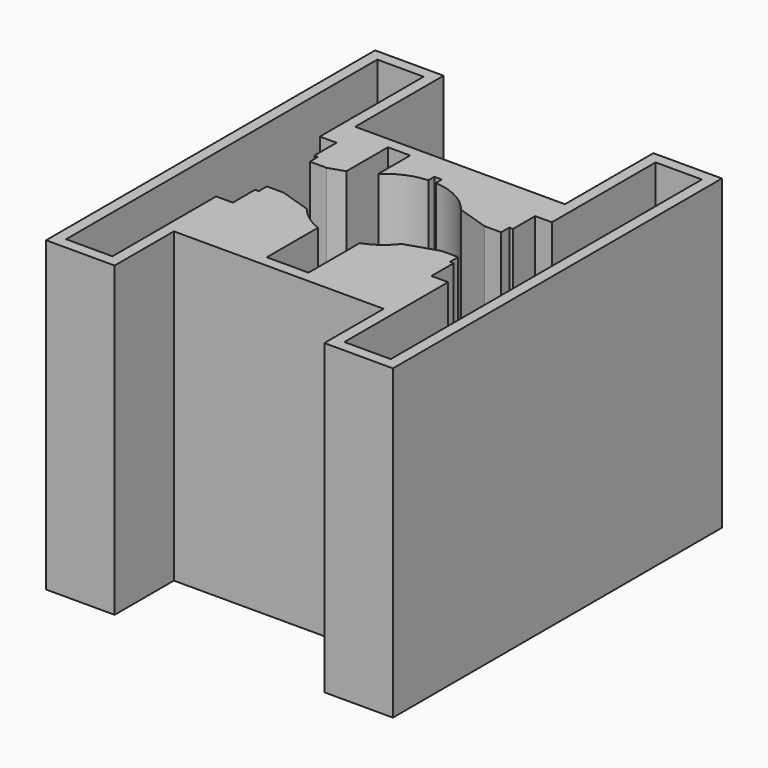
from build123d import *

# Parameters (mm, degrees)
F1_DEPTH = 32
F3_DEPTH = 1.2
F7_DEPTH = 5
F8_DEPTH = 5


with BuildPart() as f1:
    # F0 (on Top) → F1 (new body)
    with BuildSketch(Plane.XY):
        Polygon((-18.723475383, -22.2), (-11.323475383, -22.2), (-11.323475383, -14.2), (-2.25, -14.2), (2.25, -14.2), (11.323475383, -14.2), (11.323475383, -22.2), (18.723475383, -22.2), (18.723475383, 0), (18.723475383, 22.2), (11.323475383, 22.2), (11.323475383, 10.2626532034), (-4.423475383, 10.2626532034), (-6.823475383, 10.2626532034), (-11.323475383, 10.2626532034), (-11.323475383, 22.2), (-18.723475383, 22.2), (-18.723475383, 0), align=None)
        with BuildLine():
            ThreePointArc((-2.25, -6.0981554588), (-3.833092601, -5.2495143691), (-5.123475383, -4))
            Line((-5.123475383, -4), (-8.523475383, -2.9))
            Line((-8.523475383, -2.9), (-10.323475383, -2.9))
            Line((-10.323475383, -2.9), (-10.323475383, -4))
            Line((-10.323475383, -4), (-10.723475383, -4))
            Line((-10.723475383, -4), (-10.723475383, -7))
            Line((-10.723475383, -7), (-12.523475383, -7))
            Line((-12.523475383, -7), (-12.523475383, -21))
            Line((-12.523475383, -21), (-17.523475383, -21))
            Line((-17.523475383, -21), (-17.523475383, 0))
            Line((-17.523475383, 0), (-17.523475383, 21))
            Line((-17.523475383, 21), (-12.523475383, 21))
            Line((-12.523475383, 21), (-12.523475383, 7))
            Line((-12.523475383, 7), (-10.723475383, 7))
            Line((-10.723475383, 7), (-10.723475383, 4))
            Line((-10.723475383, 4), (-10.323475383, 4))
            Line((-10.323475383, 4), (-10.323475383, 2.9))
            Line((-10.323475383, 2.9), (-8.523475383, 2.9))
            Line((-8.523475383, 2.9), (-6.823475383, 3.45))
            Line((-6.823475383, 3.45), (-6.823475383, 9.0626532034))
            Line((-6.823475383, 9.0626532034), (-4.423475383, 9.0626532034))
            Line((-4.423475383, 9.0626532034), (-4.423475383, 4.7626532034))
            ThreePointArc((-4.423475383, 4.7626532034), (-2.5613294597, 5.9740766148), (-0.4, 6.4876806333))
            Line((-0.4, 6.4876806333), (-0.4, 7.3))
            Line((-0.4, 7.3), (0, 7.3))
            Line((0, 7.3), (0.4, 7.3))
            Line((0.4, 7.3), (0.4, 6.4876806333))
            ThreePointArc((0.4, 6.4876806333), (3.0289162765, 5.7511447721), (5.123475383, 4))
            Line((5.123475383, 4), (8.523475383, 2.9))
            Line((8.523475383, 2.9), (10.323475383, 2.9))
            Line((10.323475383, 2.9), (10.323475383, 4))
            Line((10.323475383, 4), (10.723475383, 4))
            Line((10.723475383, 4), (10.723475383, 7))
            Line((10.723475383, 7), (12.523475383, 7))
            Line((12.523475383, 7), (12.523475383, 21))
            Line((12.523475383, 21), (17.523475383, 21))
            Line((17.523475383, 21), (17.523475383, 0))
            Line((17.523475383, 0), (17.523475383, -21))
            Line((17.523475383, -21), (12.523475383, -21))
            Line((12.523475383, -21), (12.523475383, -7))
            Line((12.523475383, -7), (10.723475383, -7))
            Line((10.723475383, -7), (10.723475383, -4))
            Line((10.723475383, -4), (10.323475383, -4))
            Line((10.323475383, -4), (10.323475383, -2.9))
            Line((10.323475383, -2.9), (8.523475383, -2.9))
            Line((8.523475383, -2.9), (5.123475383, -4))
            ThreePointArc((5.123475383, -4), (3.833092601, -5.2495143691), (2.25, -6.0981554588))
            Line((2.25, -6.0981554588), (2.25, -13))
            Line((2.25, -13), (-2.25, -13))
            Line((-2.25, -13), (-2.25, -6.0981554588))
        make_face(mode=Mode.SUBTRACT)
    extrude(amount=F1_DEPTH)

    # F2 (on face) → F3 (join)
    with BuildSketch(Plane(origin=(0, 0, 0), x_dir=(1, 0, 0), z_dir=(0, 0, -1))):
        Polygon((11.323475383, -10.2626532034), (11.323475383, -22.2), (18.723475383, -22.2), (18.723475383, 0), (18.723475383, 22.2), (11.323475383, 22.2), (11.323475383, 14.2), (-11.323475383, 14.2), (-11.323475383, 22.2), (-18.723475383, 22.2), (-18.723475383, -22.2), (-11.323475383, -22.2), (-11.323475383, -10.2626532034), align=None)
        with BuildLine():
            Line((17.523475383, 21), (17.523475383, 0))
            Line((17.523475383, 0), (17.523475383, -21))
            Line((17.523475383, -21), (12.523475383, -21))
            Line((12.523475383, -21), (12.523475383, -7))
            Line((12.523475383, -7), (10.723475383, -7))
            Line((10.723475383, -7), (10.723475383, -4))
            Line((10.723475383, -4), (10.323475383, -4))
            Line((10.323475383, -4), (10.323475383, -2.9))
            Line((10.323475383, -2.9), (8.523475383, -2.9))
            Line((8.523475383, -2.9), (5.123475383, -4))
            ThreePointArc((5.123475383, -4), (3.0289162765, -5.7511447721), (0.4, -6.4876806333))
            Line((0.4, -6.4876806333), (0.4, -7.3))
            Line((0.4, -7.3), (-0.4, -7.3))
            Line((-0.4, -7.3), (-0.4, -6.4876806333))
            ThreePointArc((-0.4, -6.4876806333), (-2.5613294597, -5.9740766148), (-4.423475383, -4.7626532034))
            Line((-4.423475383, -4.7626532034), (-4.423475383, -9.0626532034))
            Line((-4.423475383, -9.0626532034), (-6.823475383, -9.0626532034))
            Line((-6.823475383, -9.0626532034), (-6.823475383, -3.45))
            Line((-6.823475383, -3.45), (-8.523475383, -2.9))
            Line((-8.523475383, -2.9), (-10.323475383, -2.9))
            Line((-10.323475383, -2.9), (-10.323475383, -4))
            Line((-10.323475383, -4), (-10.723475383, -4))
            Line((-10.723475383, -4), (-10.723475383, -7))
            Line((-10.723475383, -7), (-12.523475383, -7))
            Line((-12.523475383, -7), (-12.523475383, -21))
            Line((-12.523475383, -21), (-17.523475383, -21))
            Line((-17.523475383, -21), (-17.523475383, 0))
            Line((-17.523475383, 0), (-17.523475383, 21))
            Line((-17.523475383, 21), (-12.523475383, 21))
            Line((-12.523475383, 21), (-12.523475383, 7))
            Line((-12.523475383, 7), (-10.723475383, 7))
            Line((-10.723475383, 7), (-10.723475383, 4))
            Line((-10.723475383, 4), (-10.323475383, 4))
            Line((-10.323475383, 4), (-10.323475383, 2.9))
            Line((-10.323475383, 2.9), (-8.523475383, 2.9))
            Line((-8.523475383, 2.9), (-5.123475383, 4))
            ThreePointArc((-5.123475383, 4), (-3.833092601, 5.2495143691), (-2.25, 6.0981554588))
            Line((-2.25, 6.0981554588), (-2.25, 13))
            Line((-2.25, 13), (2.25, 13))
            Line((2.25, 13), (2.25, 6.0981554588))
            ThreePointArc((2.25, 6.0981554588), (3.833092601, 5.2495143691), (5.123475383, 4))
            Line((5.123475383, 4), (8.523475383, 2.9))
            Line((8.523475383, 2.9), (10.323475383, 2.9))
            Line((10.323475383, 2.9), (10.323475383, 4))
            Line((10.323475383, 4), (10.723475383, 4))
            Line((10.723475383, 4), (10.723475383, 7))
            Line((10.723475383, 7), (12.523475383, 7))
            Line((12.523475383, 7), (12.523475383, 21))
            Line((12.523475383, 21), (17.523475383, 21))
        make_face(mode=Mode.SUBTRACT)
        with BuildLine():
            Line((17.523475383, -21), (17.523475383, 0))
            Line((17.523475383, 0), (-17.523475383, 0))
            Line((-17.523475383, 0), (-17.523475383, -21))
            Line((-17.523475383, -21), (-12.523475383, -21))
            Line((-12.523475383, -21), (-12.523475383, -7))
            Line((-12.523475383, -7), (-10.723475383, -7))
            Line((-10.723475383, -7), (-10.723475383, -4))
            Line((-10.723475383, -4), (-10.323475383, -4))
            Line((-10.323475383, -4), (-10.323475383, -2.9))
            Line((-10.323475383, -2.9), (-8.523475383, -2.9))
            Line((-8.523475383, -2.9), (-6.823475383, -3.45))
            Line((-6.823475383, -3.45), (-6.823475383, -9.0626532034))
            Line((-6.823475383, -9.0626532034), (-4.423475383, -9.0626532034))
            Line((-4.423475383, -9.0626532034), (-4.423475383, -4.7626532034))
            ThreePointArc((-4.423475383, -4.7626532034), (-2.5613294597, -5.9740766148), (-0.4, -6.4876806333))
            Line((-0.4, -6.4876806333), (-0.4, -7.3))
            Line((-0.4, -7.3), (0.4, -7.3))
            Line((0.4, -7.3), (0.4, -6.4876806333))
            ThreePointArc((0.4, -6.4876806333), (3.0289162765, -5.7511447721), (5.123475383, -4))
            Line((5.123475383, -4), (8.523475383, -2.9))
            Line((8.523475383, -2.9), (10.323475383, -2.9))
            Line((10.323475383, -2.9), (10.323475383, -4))
            Line((10.323475383, -4), (10.723475383, -4))
            Line((10.723475383, -4), (10.723475383, -7))
            Line((10.723475383, -7), (12.523475383, -7))
            Line((12.523475383, -7), (12.523475383, -21))
            Line((12.523475383, -21), (17.523475383, -21))
        make_face()
        with BuildLine():
            Line((-17.523475383, 0), (17.523475383, 0))
            Line((17.523475383, 0), (17.523475383, 21))
            Line((17.523475383, 21), (12.523475383, 21))
            Line((12.523475383, 21), (12.523475383, 7))
            Line((12.523475383, 7), (10.723475383, 7))
            Line((10.723475383, 7), (10.723475383, 4))
            Line((10.723475383, 4), (10.323475383, 4))
            Line((10.323475383, 4), (10.323475383, 2.9))
            Line((10.323475383, 2.9), (8.523475383, 2.9))
            Line((8.523475383, 2.9), (5.123475383, 4))
            ThreePointArc((5.123475383, 4), (3.833092601, 5.2495143691), (2.25, 6.0981554588))
            Line((2.25, 6.0981554588), (2.25, 13))
            Line((2.25, 13), (-2.25, 13))
            Line((-2.25, 13), (-2.25, 6.0981554588))
            ThreePointArc((-2.25, 6.0981554588), (-3.833092601, 5.2495143691), (-5.123475383, 4))
            Line((-5.123475383, 4), (-8.523475383, 2.9))
            Line((-8.523475383, 2.9), (-10.323475383, 2.9))
            Line((-10.323475383, 2.9), (-10.323475383, 4))
            Line((-10.323475383, 4), (-10.723475383, 4))
            Line((-10.723475383, 4), (-10.723475383, 7))
            Line((-10.723475383, 7), (-12.523475383, 7))
            Line((-12.523475383, 7), (-12.523475383, 21))
            Line((-12.523475383, 21), (-17.523475383, 21))
            Line((-17.523475383, 21), (-17.523475383, 0))
        make_face()
    extrude(amount=F3_DEPTH)

    # F5 (on face) → F7 (join, through all)
    with BuildSketch(Plane.YZ.offset(-17.523475383)):
        Polygon((-21, 4), (-21, 0), (0, 0), align=None)
        Polygon((21, 4), (0, 0), (21, 0), align=None)
    extrude(amount=F7_DEPTH)

    # F6 (on face) → F8 (join, through all)
    with BuildSketch(Plane(origin=(17.523475383, 0, 0), x_dir=(0, -1, 0), z_dir=(-1, 0, 0))):
        Polygon((-21, 4), (-21, 0), (0, 0), align=None)
        Polygon((21, 4), (0, 0), (21, 0), align=None)
    extrude(amount=F8_DEPTH)


solid = f1.part
